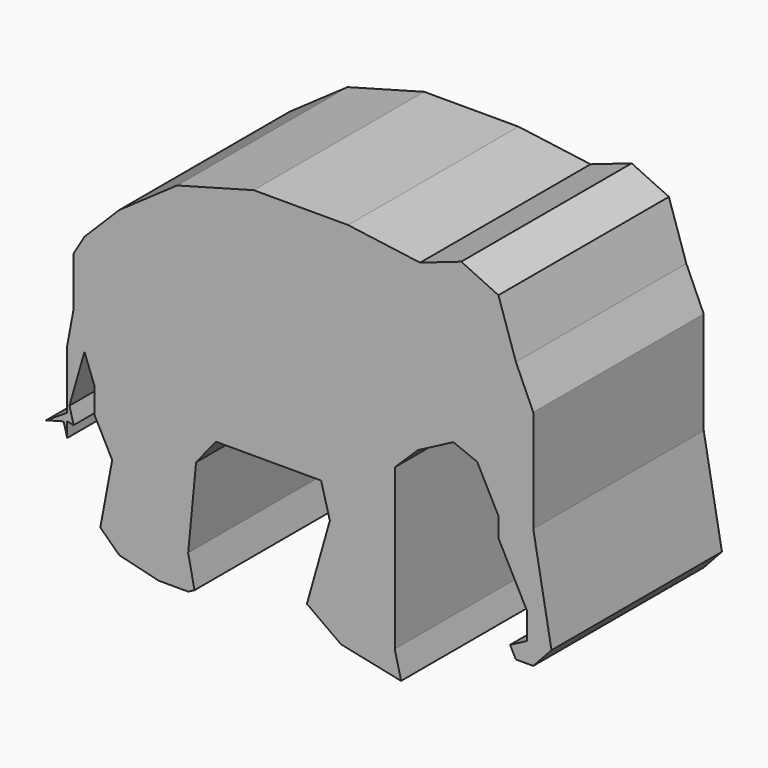
from build123d import *

# Parameters (mm, degrees)
F1_DEPTH = 25.4


with BuildPart() as f1:
    # F0 (on Front) → F1 (new body)
    with BuildSketch(Plane.XZ):
        Polygon((19.687949, 25.243243), (14.781063, 23.544706), (6.194014, 24.701377), (-5.051399, 24.701377), (-14.188432, 22.223622), (-21.076944, 17.4111), (-25.228923, 13.259119), (-26.514801, 11.088767), (-26.514801, 5.281893), (-27.283788, 1.180633), (-27.283788, -5.896606), (-29.806441, -7.50078), (-27.718788, -6.934656), (-27.283788, -8.538775), (-27.283788, -6.790471), (-26.514801, -6.934656), (-27.021825, -5.06494), (-25.228923, 1.180633), (-24.035911, -2.027715), (-24.035911, -5.06494), (-21.926213, -9.104954), (-23.341661, -16.654009), (-21.076944, -18.824359), (-16.358785, -19.973479), (-12.867347, -19.973479), (-12.112442, -19.579267), (-12.867347, -15.899101), (-11.923715, -6.085332), (-9.564636, -3.160073), (2.985667, -3.160073), (4.023661, -7.028964), (1.287129, -16.654009), (5.344746, -19.579267), (12.516348, -21.089077), (11.761442, -17.975092), (11.761442, -16.654009), (11.761442, 1.08627), (14.527172, 3.790959), (17.145273, 5.158133), (18.744318, 5.993155), (21.584706, 4.860796), (22.52096, 3.067896), (24.123017, 0), (24.123017, -2.335592), (25.511982, -4.995424), (26.670383, -7.213729), (27.510151, -8.821864), (27.510151, -12.030212), (25.511982, -13.073657), (26.199007, -14.389291), (28.275, -14.389291), (30.445352, -12.030212), (28.275, 0), (28.275, 1.841175), (28.275, 4.860796), (28.275, 12.221124), (26.199007, 16.844919), (24.123017, 23.167253), align=None)
    extrude(amount=F1_DEPTH)


solid = f1.part
